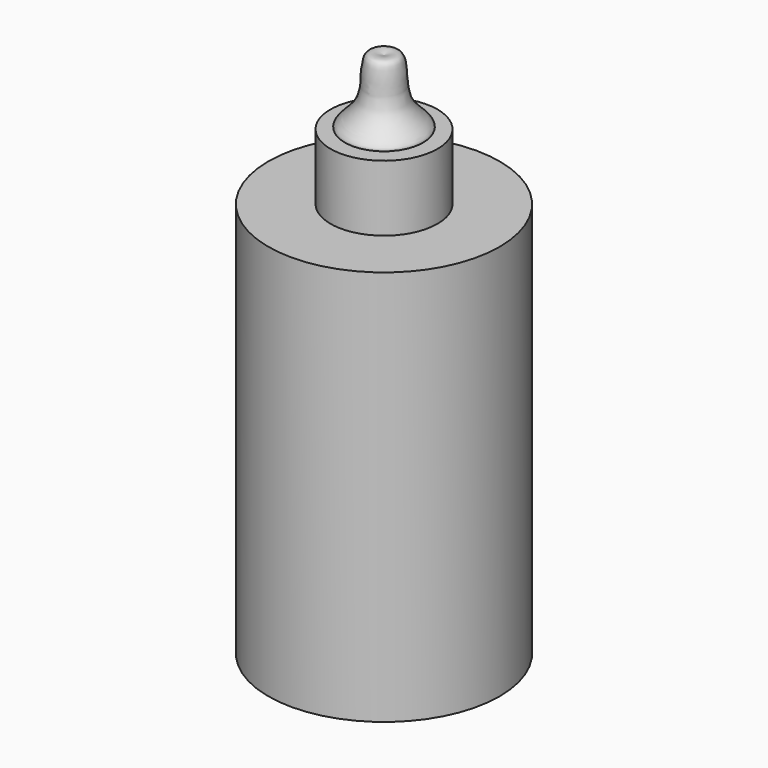
from build123d import *

# Parameters (mm, degrees)
F0_R     = 44.5429480325
F1_DEPTH = 152.4
F2_R     = 20.6018000869
F3_DEPTH = 25.4


with BuildPart() as f1:
    # F0 (on Top) → F1 (new body)
    with BuildSketch(Plane.XY):
        Circle(F0_R)
    extrude(amount=F1_DEPTH)

    # F2 (on face) → F3 (join)
    with BuildSketch(Plane.XY.offset(152.4)):
        Circle(F2_R)
    extrude(amount=F3_DEPTH)


with BuildPart() as f5:
    # F4 (on Right) → F5 (revolve)
    with BuildSketch(Plane.YZ):
        with BuildLine():
            Line((0, 202.9023468494), (0, 178.7326484919))
            add(Edge.make_bspline(
                [(0, 202.9023468494), (2.2296912111, 203.5570291376), (7.8599163497, 205.2101767385), (6.1222476166, 188.7861749021), (12.0403399977, 182.7350478897), (18.3472904248, 176.3667574668), (7.2112046106, 177.8027605426), (0, 178.7326484919)],
                knots=[0, 0, 0, 0, 0.157355638, 0.3973409701, 0.6003607585, 0.7412124522, 1, 1, 1, 1], degree=3))
        make_face()
    revolve(axis=Axis((0, 0, 190.8174976707), (0, 0, 1)))


solid = Compound([f1.part, f5.part])
